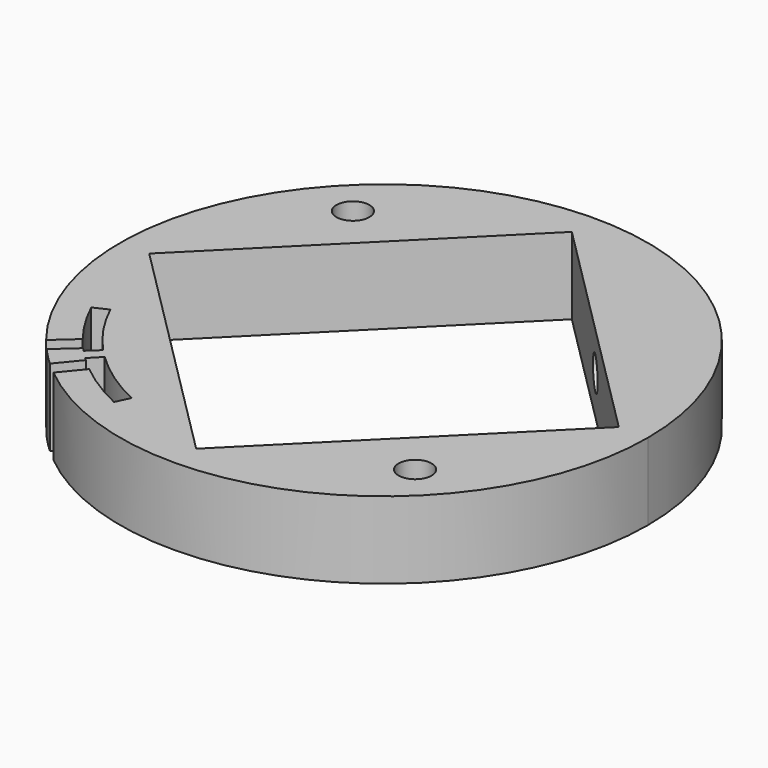
from build123d import *

# Parameters (mm, degrees)
CYLINDER1825_R               = 1.5
CYLINDER1825_DEPTH           = 50
CYLINDER1825_ROLL_ANGLE      = -22.499828
CYLINDER1825_PITCH_ANGLE     = 89.998999
CYLINDER1825_PLACEMENT_ANGLE = 22.499828
CYLINDER1826_R               = 3
CYLINDER1826_DEPTH           = 10
CYLINDER1826_PITCH_ANGLE     = 90
CYLINDER1826_PLACEMENT_ANGLE = 45
CYLINDER1828_R               = 20
CYLINDER1828_DEPTH           = 7
BOX722_W                     = 1.4
BOX722_H                     = 60
BOX722_DEPTH                 = 7
BOX722_PLACEMENT_ANGLE       = 5.7
BOX725_W                     = 1.4
BOX725_H                     = 60
BOX725_DEPTH                 = 7
BOX725_PLACEMENT_ANGLE       = 3
CUT543_PLACEMENT_ANGLE       = 134.9
BOX724_W                     = 60
BOX724_H                     = 60
BOX724_DEPTH                 = 7
BOX724_PLACEMENT_ANGLE       = 1
BOX730_W                     = 60
BOX730_H                     = 60
BOX730_DEPTH                 = 7
BOX730_PLACEMENT_ANGLE       = 2
BOX728_W                     = 120
BOX728_H                     = 60
BOX728_DEPTH                 = 7
TUBE091_R                    = 21.4
TUBE091_R_2                  = 20
TUBE091_DEPTH                = 7
BOX729_W                     = 60
BOX729_H                     = 60
BOX729_DEPTH                 = 7
BOX729_PLACEMENT_ANGLE       = 20
BOX727_W                     = 60
BOX727_H                     = 60
BOX727_DEPTH                 = 7
BOX727_PLACEMENT_ANGLE       = 20
BOX726_W                     = 120
BOX726_H                     = 60
BOX726_DEPTH                 = 7
TUBE092_R                    = 21.4
TUBE092_R_2                  = 20
TUBE092_DEPTH                = 7
CUT541_PLACEMENT_ANGLE       = 135
CYLINDER1830_R               = 1.5
CYLINDER1830_DEPTH           = 20
CYLINDER1830_PLACEMENT_ANGLE = 135
CYLINDER1829_R               = 1.5
CYLINDER1829_DEPTH           = 20
CYLINDER1829_PLACEMENT_ANGLE = 45
BOX723_W                     = 30.2
BOX723_H                     = 30.2
BOX723_DEPTH                 = 100
BOX723_PLACEMENT_ANGLE       = 45
CYLINDER1827_R               = 24
CYLINDER1827_DEPTH           = 7


with BuildPart() as obj1:
    # Cylinder1825 → Cylinder1825 (new body)
    with BuildSketch(Plane.XY):
        Circle(CYLINDER1825_R)
    extrude(amount=CYLINDER1825_DEPTH)


with BuildPart() as obj1_1:
    # Cylinder1825 roll: moved
    add(obj1.part.rotate(Axis((0, 0, 0), (1, 0, 0)), CYLINDER1825_ROLL_ANGLE))


with BuildPart() as obj1_2:
    # Cylinder1825 pitch: moved
    add(obj1_1.part.rotate(Axis((0, 0, 0), (0, 1, 0)), CYLINDER1825_PITCH_ANGLE))


with BuildPart() as obj1_3:
    # Cylinder1825 placement: moved
    add(obj1_2.part.moved(Location((0, 0, -18.5))).rotate(Axis((0, 0, -18.5), (0, 0, 1)), CYLINDER1825_PLACEMENT_ANGLE))


with BuildPart() as obj2:
    # Cylinder1826 → Cylinder1826 (new body)
    with BuildSketch(Plane.XY):
        Circle(CYLINDER1826_R)
    extrude(amount=CYLINDER1826_DEPTH)


with BuildPart() as obj2_1:
    # Cylinder1826 pitch: moved
    add(obj2.part.rotate(Axis((0, 0, 0), (0, 1, 0)), CYLINDER1826_PITCH_ANGLE))


with BuildPart() as obj2_2:
    # Cylinder1826 placement: moved
    add(obj2_1.part.moved(Location((14.849242, 14.849242, -18.5))).rotate(Axis((14.849242, 14.849242, -18.5), (0, 0, 1)), CYLINDER1826_PLACEMENT_ANGLE))


with BuildPart() as obj3:
    # Cylinder1828 → Cylinder1828 (new body)
    with BuildSketch(Plane.XY.offset(-22)):
        Circle(CYLINDER1828_R)
    extrude(amount=CYLINDER1828_DEPTH)


with BuildPart() as krychle722:
    # Box722 → Box722 (new body)
    with BuildSketch(Plane.XY):
        with Locations((0.7, 30)):
            Rectangle(BOX722_W, BOX722_H)
    extrude(amount=BOX722_DEPTH)


with BuildPart() as krychle722_1:
    # Box722 placement: moved
    add(krychle722.part.moved(Location((0, 0, -22))).rotate(Axis((0, 0, -22), (0, 0, 1)), BOX722_PLACEMENT_ANGLE))


with BuildPart() as cut543:
    # Box725 → Box725 (new body)
    with BuildSketch(Plane.XY):
        with Locations((0.7, 30)):
            Rectangle(BOX725_W, BOX725_H)
    extrude(amount=BOX725_DEPTH)


with BuildPart() as cut543_1:
    # Box725 placement: moved
    add(cut543.part.moved(Location((0, 0, -22))).rotate(Axis((0, 0, -22), (0, 0, -1)), BOX725_PLACEMENT_ANGLE))

    # Compound903: union Krychle722
    add(krychle722_1.part)

    # Cut543: cut obj3
    add(obj3.part, mode=Mode.SUBTRACT)


with BuildPart() as cut543_2:
    # Cut543 placement: moved
    add(cut543_1.part.rotate(Axis((0, 0, 0), (0, 0, 1)), CUT543_PLACEMENT_ANGLE))


with BuildPart() as krychle724:
    # Box724 → Box724 (new body)
    with BuildSketch(Plane.XY):
        with Locations((30, 30)):
            Rectangle(BOX724_W, BOX724_H)
    extrude(amount=BOX724_DEPTH)


with BuildPart() as krychle724_1:
    # Box724 placement: moved
    add(krychle724.part.moved(Location((-59.990862, -1.047144, -22))).rotate(Axis((-59.990862, -1.047144, -22), (0, 0, 1)), BOX724_PLACEMENT_ANGLE))


with BuildPart() as compound900:
    # Box730 → Box730 (new body)
    with BuildSketch(Plane.XY):
        with Locations((30, 30)):
            Rectangle(BOX730_W, BOX730_H)
    extrude(amount=BOX730_DEPTH)


with BuildPart() as compound900_1:
    # Box730 placement: moved
    add(compound900.part.moved(Location((0, 0, -22))).rotate(Axis((0, 0, -22), (0, 0, -1)), BOX730_PLACEMENT_ANGLE))

    # Compound900: union Krychle724
    add(krychle724_1.part)


with BuildPart() as krychle728:
    # Box728 → Box728 (new body)
    with BuildSketch(Plane(origin=(-60, -60, -22), x_dir=(1, 0, 0), z_dir=(0, 0, 1))):
        with Locations((60, 30)):
            Rectangle(BOX728_W, BOX728_H)
    extrude(amount=BOX728_DEPTH)


with BuildPart() as cut539:
    # Tube091 → Tube091 (new body)
    with BuildSketch(Plane.XY.offset(-22)):
        Circle(TUBE091_R)
        Circle(TUBE091_R_2, mode=Mode.SUBTRACT)
    extrude(amount=TUBE091_DEPTH)

    # Cut544: cut Krychle728
    add(krychle728.part, mode=Mode.SUBTRACT)

    # Cut539: cut Compound900
    add(compound900_1.part, mode=Mode.SUBTRACT)


with BuildPart() as cut539_1:
    # Cut539 placement: moved
    add(cut539.part.moved(Location((0, 0, -7))))


with BuildPart() as krychle729:
    # Box729 → Box729 (new body)
    with BuildSketch(Plane.XY):
        with Locations((30, 30)):
            Rectangle(BOX729_W, BOX729_H)
    extrude(amount=BOX729_DEPTH)


with BuildPart() as krychle729_1:
    # Box729 placement: moved
    add(krychle729.part.moved(Location((-56.381557, -20.521209, -22))).rotate(Axis((-56.381557, -20.521209, -22), (0, 0, 1)), BOX729_PLACEMENT_ANGLE))


with BuildPart() as compound901:
    # Box727 → Box727 (new body)
    with BuildSketch(Plane.XY):
        with Locations((30, 30)):
            Rectangle(BOX727_W, BOX727_H)
    extrude(amount=BOX727_DEPTH)


with BuildPart() as compound901_1:
    # Box727 placement: moved
    add(compound901.part.moved(Location((0, 0, -22))).rotate(Axis((0, 0, -22), (0, 0, -1)), BOX727_PLACEMENT_ANGLE))

    # Compound901: union Krychle729
    add(krychle729_1.part)


with BuildPart() as krychle726:
    # Box726 → Box726 (new body)
    with BuildSketch(Plane(origin=(-60, -60, -22), x_dir=(1, 0, 0), z_dir=(0, 0, 1))):
        with Locations((60, 30)):
            Rectangle(BOX726_W, BOX726_H)
    extrude(amount=BOX726_DEPTH)


with BuildPart() as cut541:
    # Tube092 → Tube092 (new body)
    with BuildSketch(Plane.XY.offset(-22)):
        Circle(TUBE092_R)
        Circle(TUBE092_R_2, mode=Mode.SUBTRACT)
    extrude(amount=TUBE092_DEPTH)

    # Cut538: cut Krychle726
    add(krychle726.part, mode=Mode.SUBTRACT)

    # Cut540: cut Compound901
    add(compound901_1.part, mode=Mode.SUBTRACT)


with BuildPart() as cut541_1:
    # Cut540 placement: moved
    add(cut541.part.moved(Location((0, 0, -7))))

    # Cut541: cut Cut539
    add(cut539_1.part, mode=Mode.SUBTRACT)


with BuildPart() as cut541_2:
    # Cut541 placement: moved
    add(cut541_1.part.moved(Location((0, 0, 7))).rotate(Axis((0, 0, 7), (0, 0, 1)), CUT541_PLACEMENT_ANGLE))


with BuildPart() as obj4:
    # Cylinder1830 → Cylinder1830 (new body)
    with BuildSketch(Plane.XY):
        Circle(CYLINDER1830_R)
    extrude(amount=CYLINDER1830_DEPTH)


with BuildPart() as obj4_1:
    # Cylinder1830 placement: moved
    add(obj4.part.moved(Location((-14.142136, 14.142136, -30))).rotate(Axis((-14.142136, 14.142136, -30), (0, 0, 1)), CYLINDER1830_PLACEMENT_ANGLE))


with BuildPart() as compound902:
    # Cylinder1829 → Cylinder1829 (new body)
    with BuildSketch(Plane.XY):
        Circle(CYLINDER1829_R)
    extrude(amount=CYLINDER1829_DEPTH)


with BuildPart() as compound902_1:
    # Cylinder1829 placement: moved
    add(compound902.part.moved(Location((14.142136, -14.142136, -30))).rotate(Axis((14.142136, -14.142136, -30), (0, 0, -1)), CYLINDER1829_PLACEMENT_ANGLE))

    # Compound902: union obj4
    add(obj4_1.part)


with BuildPart() as krychle723:
    # Box723 → Box723 (new body)
    with BuildSketch(Plane.XY):
        with Locations((15.1, 15.1)):
            Rectangle(BOX723_W, BOX723_H)
    extrude(amount=BOX723_DEPTH)


with BuildPart() as krychle723_1:
    # Box723 placement: moved
    add(krychle723.part.moved(Location((0, -21.354625, -30))).rotate(Axis((0, -21.354625, -30), (0, 0, 1)), BOX723_PLACEMENT_ANGLE))


with BuildPart() as cut547:
    # Cylinder1827 → Cylinder1827 (new body)
    with BuildSketch(Plane.XY.offset(-22)):
        Circle(CYLINDER1827_R)
    extrude(amount=CYLINDER1827_DEPTH)

    # Cut542: cut Krychle723
    add(krychle723_1.part, mode=Mode.SUBTRACT)

    # Cut537: cut Compound902
    add(compound902_1.part, mode=Mode.SUBTRACT)

    # Cut536: cut Cut541
    add(cut541_2.part, mode=Mode.SUBTRACT)

    # Cut545: cut Cut543
    add(cut543_2.part, mode=Mode.SUBTRACT)

    # Cut546: cut obj2
    add(obj2_2.part, mode=Mode.SUBTRACT)

    # Cut547: cut obj1
    add(obj1_3.part, mode=Mode.SUBTRACT)


solid = cut547.part
